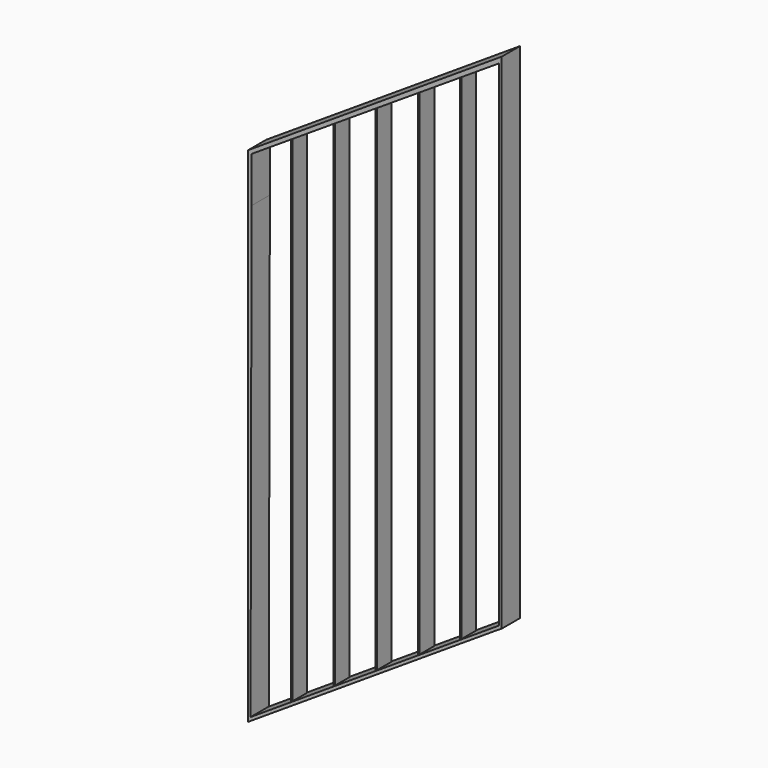
from build123d import *

# Parameters (mm, degrees)
F1_DEPTH = 25
F4_DEPTH = 20


with BuildPart() as f1:
    # F0 (on Front) → F1 (new body, symmetric)
    with BuildSketch(Plane.XZ):
        Polygon((0, 1100.618839), (0, 996.64706), (7.914309, 996.64706), (8.147805, 1096.340179), (549, 1446.378997), (549, 996.64706), (555, 996.64706), (555, 1461.323261), align=None)
        Polygon((7.914309, 996.64706), (0, 996.64706), (0, 0), (549, 356.507838), (555, 359.997779), (555, 996.64706), (549, 996.64706), (549, 364.02027), (5.606139, 11.152929), align=None)
    extrude(amount=F1_DEPTH, both=True)

    # F3 (on Front) → F4 (join, symmetric)
    with BuildSketch(Plane.XZ):
        Polygon((90.070955, 1150.417089), (90.070955, 58.627985), (93.622372, 61.104938), (93.622372, 1150.417089), align=None)
        Polygon((182.551578, 1211.445689), (182.551578, 118.694976), (185.932964, 120.776258), (185.932964, 1211.573839), align=None)
        Polygon((274.827629, 1269.390702), (274.827629, 178.488195), (278.236151, 180.664718), (278.236151, 1272.670865), align=None)
        Polygon((368.308038, 1330.588698), (368.308038, 239.165395), (371.676505, 241.343275), (371.676505, 1333.667517), align=None)
        Polygon((459.420741, 1391.958952), (459.420741, 298.422277), (462.732583, 300.599903), (462.732583, 1392.047167), align=None)
    extrude(amount=F4_DEPTH, both=True)


solid = f1.part
